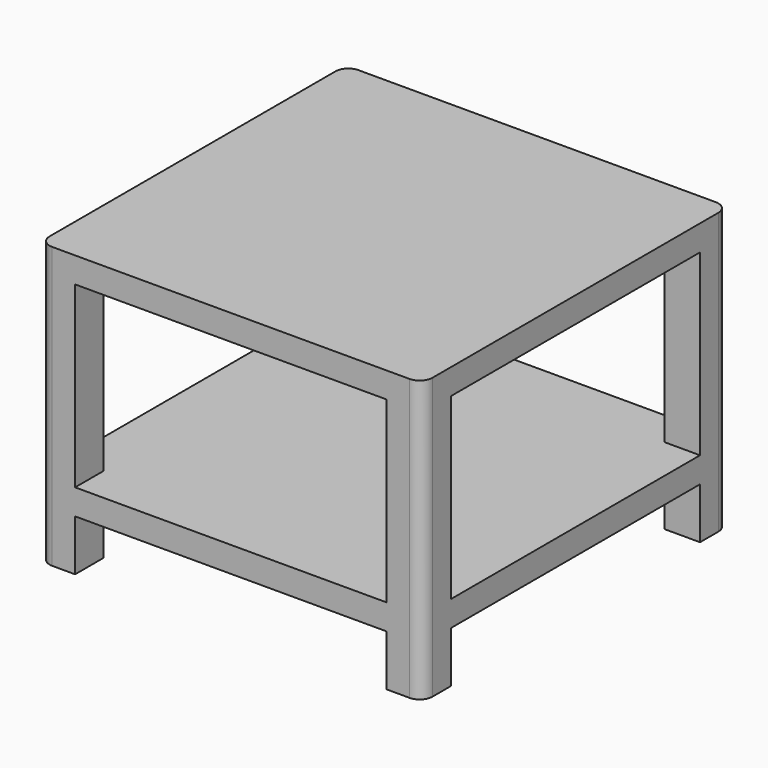
from build123d import *

# Parameters (mm, degrees)
F0_W     = 600
F0_H     = 600
F1_DEPTH = 40
F2_W     = 55.912304
F2_H     = 55.912304
F3_DEPTH = 400
F5_W     = 600
F5_H     = 600
F6_DEPTH = 40
F7_R     = 20


with BuildPart() as f1:
    # F0 (on Top) → F1 (new body)
    with BuildSketch(Plane.XY):
        Rectangle(F0_W, F0_H)
    extrude(amount=F1_DEPTH)

    # F2 (on face) → F3 (join)
    with BuildSketch(Plane(origin=(0, 0, 0), x_dir=(1, 0, 0), z_dir=(0, 0, -1))):
        with Locations((-272.043848, 272.043848)):
            Rectangle(F2_W, F2_H)
        with Locations((272.043848, 272.043848)):
            Rectangle(F2_W, F2_H)
        with Locations((272.043848, -272.043848)):
            Rectangle(F2_W, F2_H)
        with Locations((-272.043848, -272.043848)):
            Rectangle(F2_W, F2_H)
    extrude(amount=F3_DEPTH)

    # F5 (on offset) → F6 (join)
    with BuildSketch(Plane.XY.offset(-280)):
        Rectangle(F5_W, F5_H)
    extrude(amount=-F6_DEPTH)

    # F7
    f7_edges = [f1.edges().sort_by_distance(p)[0] for p in [
        (300, -300, -180),
        (-300, -300, -180),
        (300, 300, -180),
        (-300, 300, -180),
    ]]
    fillet(f7_edges, radius=F7_R)


solid = f1.part
